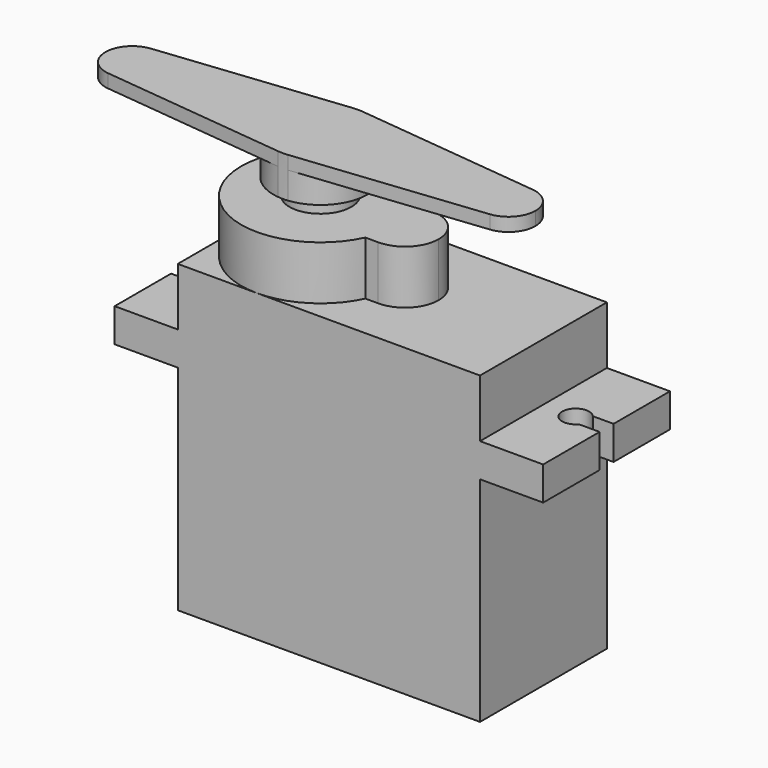
from build123d import *

# Parameters (mm, degrees)
F0_W      = 22.5
F0_H      = 15.9
F0_W_2    = 4.7
F0_H_2    = 2.5
F0_H_3    = 4.3
F1_DEPTH  = 11.8
F3_DEPTH  = 4
F5_DEPTH  = 18.401
F6_R      = 2.3
F7_DEPTH  = 3.2
F9_DEPTH  = 1
F8_R      = 2.3
F10_DEPTH = 2


with BuildPart() as f1:
    # F0 (on Front) → F1 (new body)
    with BuildSketch(Plane.XZ):
        with Locations((11.25, 7.95)):
            Rectangle(F0_W, F0_H)
        with Locations((-2.35, 17.15)):
            Rectangle(F0_W_2, F0_H_2)
        with Locations((11.25, 17.15)):
            Rectangle(F0_W, F0_H_2)
        with Locations((24.85, 17.15)):
            Rectangle(F0_W_2, F0_H_2)
        with Locations((11.25, 20.55)):
            Rectangle(F0_W, F0_H_3)
    extrude(amount=F1_DEPTH)

    # F2 (on face) → F3 (join)
    with BuildSketch(Plane.XY.offset(22.7)):
        with BuildLine():
            ThreePointArc((11.3166666667, -3.5612562726), (11.281015269, -3.4803564983), (11.2441556864, -3.4))
            ThreePointArc((11.2441556864, -3.4), (0, -5.9), (11.2441556864, -8.4))
            ThreePointArc((11.2441556864, -8.4), (11.281015269, -8.3196435017), (11.3166666667, -8.2387437274))
            ThreePointArc((11.3166666667, -8.2387437274), (9.7, -5.9), (11.3166666667, -3.5612562726))
        make_face()
        with BuildLine():
            Line((12.2, -3.4), (11.2441556864, -3.4))
            ThreePointArc((11.2441556864, -3.4), (11.281015269, -3.4803564983), (11.3166666667, -3.5612562726))
            ThreePointArc((11.3166666667, -3.5612562726), (11.7510341429, -3.4406444626), (12.2, -3.4))
        make_face()
        with BuildLine():
            ThreePointArc((11.3166666667, -8.2387437274), (11.281015269, -8.3196435017), (11.2441556864, -8.4))
            Line((11.2441556864, -8.4), (12.2, -8.4))
            ThreePointArc((12.2, -8.4), (11.7510341429, -8.3593555374), (11.3166666667, -8.2387437274))
        make_face()
        with BuildLine():
            ThreePointArc((12.2, -3.4), (11.7510341429, -3.4406444626), (11.3166666667, -3.5612562726))
            ThreePointArc((11.3166666667, -3.5612562726), (11.6779033106, -4.7059173675), (11.8, -5.9))
            ThreePointArc((11.8, -5.9), (11.6779033106, -7.0940826325), (11.3166666667, -8.2387437274))
            ThreePointArc((11.3166666667, -8.2387437274), (11.7510341429, -8.3593555374), (12.2, -8.4))
            ThreePointArc((12.2, -8.4), (13.967766953, -7.667766953), (14.7, -5.9))
            ThreePointArc((14.7, -5.9), (13.967766953, -4.132233047), (12.2, -3.4))
        make_face()
        with BuildLine():
            ThreePointArc((11.3166666667, -8.2387437274), (11.6779033106, -7.0940826325), (11.8, -5.9))
            ThreePointArc((11.8, -5.9), (11.6779033106, -4.7059173675), (11.3166666667, -3.5612562726))
            ThreePointArc((11.3166666667, -3.5612562726), (9.7, -5.9), (11.3166666667, -8.2387437274))
        make_face()
    extrude(amount=F3_DEPTH)

    # F4 (on face) → F5 (cut, through all)
    with BuildSketch(Plane.XY.offset(18.4)):
        with BuildLine():
            ThreePointArc((-3.1599342077, -6.55), (-2.0535423602, -6.8380656181), (-1.4, -5.9))
            ThreePointArc((-1.4, -5.9), (-2.0535423602, -4.9619343819), (-3.1599342077, -5.25))
            Line((-3.1599342077, -5.25), (-2.4, -5.25))
            Line((-2.4, -5.25), (-2.4, -6.55))
            Line((-2.4, -6.55), (-3.1599342077, -6.55))
        make_face()
        with BuildLine():
            Line((-2.4, -5.25), (-3.1599342077, -5.25))
            ThreePointArc((-3.1599342077, -5.25), (-3.4, -5.9), (-3.1599342077, -6.55))
            Line((-3.1599342077, -6.55), (-2.4, -6.55))
            Line((-2.4, -6.55), (-2.4, -5.25))
        make_face()
        with BuildLine():
            ThreePointArc((-3.1599342077, -6.55), (-3.4, -5.9), (-3.1599342077, -5.25))
            Line((-3.1599342077, -5.25), (-7, -5.25))
            Line((-7, -5.25), (-7, -6.55))
            Line((-7, -6.55), (-3.1599342077, -6.55))
        make_face()
        with BuildLine():
            ThreePointArc((25.6599342077, -6.55), (25.8380656181, -6.2464576398), (25.9, -5.9))
            ThreePointArc((25.9, -5.9), (25.8380656181, -5.5535423602), (25.6599342077, -5.25))
            Line((25.6599342077, -5.25), (24.9, -5.25))
            Line((24.9, -5.25), (24.9, -6.55))
            Line((24.9, -6.55), (25.6599342077, -6.55))
        make_face()
        with BuildLine():
            ThreePointArc((25.6599342077, -5.25), (25.8380656181, -5.5535423602), (25.9, -5.9))
            ThreePointArc((25.9, -5.9), (25.8380656181, -6.2464576398), (25.6599342077, -6.55))
            Line((25.6599342077, -6.55), (29.5482767582, -6.55))
            Line((29.5482767582, -6.55), (29.5482767582, -5.25))
            Line((29.5482767582, -5.25), (25.6599342077, -5.25))
        make_face()
        with BuildLine():
            Line((24.9, -5.25), (25.6599342077, -5.25))
            ThreePointArc((25.6599342077, -5.25), (23.9, -5.9), (25.6599342077, -6.55))
            Line((25.6599342077, -6.55), (24.9, -6.55))
            Line((24.9, -6.55), (24.9, -5.25))
        make_face()
    extrude(amount=-F5_DEPTH, mode=Mode.SUBTRACT)


with BuildPart() as f7:
    # F6 (on face) → F7 (new body)
    with BuildSketch(Plane.XY.offset(26.7)):
        with Locations((5.9, -5.9)):
            Circle(F6_R)
    extrude(amount=F7_DEPTH)

    # F8 (on face) → F9 (join)
    with BuildSketch(Plane.XY.offset(29.9)):
        with BuildLine():
            ThreePointArc((6.275, -9.3798527268), (8.504083332, -8.2385358667), (9.4, -5.9))
            ThreePointArc((9.4, -5.9), (8.504083332, -3.5614641333), (6.275, -2.4201472732))
            ThreePointArc((6.275, -2.4201472732), (5.9, -2.4), (5.525, -2.4201472732))
            ThreePointArc((5.525, -2.4201472732), (2.4, -5.9), (5.525, -9.3798527268))
            ThreePointArc((5.525, -9.3798527268), (5.9, -9.4), (6.275, -9.3798527268))
        make_face()
        with BuildLine():
            ThreePointArc((6.275, -2.4201472732), (8.504083332, -3.5614641333), (9.4, -5.9))
            ThreePointArc((9.4, -5.9), (8.504083332, -8.2385358667), (6.275, -9.3798527268))
            Line((6.275, -9.3798527268), (20.1142857143, -7.8884872724))
            ThreePointArc((20.1142857143, -7.8884872724), (17.9, -5.9), (20.1142857143, -3.9115127276))
            Line((20.1142857143, -3.9115127276), (6.275, -2.4201472732))
        make_face()
        with BuildLine():
            ThreePointArc((5.525, -9.3798527268), (2.4, -5.9), (5.525, -2.4201472732))
            Line((5.525, -2.4201472732), (-8.3142857143, -3.9115127276))
            ThreePointArc((-8.3142857143, -3.9115127276), (-6.7636937904, -4.4119523817), (-6.1, -5.9))
            ThreePointArc((-6.1, -5.9), (-6.7636937904, -7.3880476183), (-8.3142857143, -7.8884872724))
            Line((-8.3142857143, -7.8884872724), (5.525, -9.3798527268))
        make_face()
        with BuildLine():
            ThreePointArc((21.9, -5.9), (21.3880476183, -4.5636937904), (20.1142857143, -3.9115127276))
            ThreePointArc((20.1142857143, -3.9115127276), (17.9, -5.9), (20.1142857143, -7.8884872724))
            ThreePointArc((20.1142857143, -7.8884872724), (21.3880476183, -7.2363062096), (21.9, -5.9))
        make_face()
        with BuildLine():
            ThreePointArc((-6.1, -5.9), (-6.7636937904, -4.4119523817), (-8.3142857143, -3.9115127276))
            ThreePointArc((-8.3142857143, -3.9115127276), (-10.1, -5.9), (-8.3142857143, -7.8884872724))
            ThreePointArc((-8.3142857143, -7.8884872724), (-6.7636937904, -7.3880476183), (-6.1, -5.9))
        make_face()
    extrude(amount=F9_DEPTH)

    # F8 (on face) → F10 (join)
    with BuildSketch(Plane.XY.offset(29.9)):
        with BuildLine():
            ThreePointArc((6.275, -9.3798527268), (8.504083332, -8.2385358667), (9.4, -5.9))
            ThreePointArc((9.4, -5.9), (8.504083332, -3.5614641333), (6.275, -2.4201472732))
            ThreePointArc((6.275, -2.4201472732), (5.9, -2.4), (5.525, -2.4201472732))
            ThreePointArc((5.525, -2.4201472732), (2.4, -5.9), (5.525, -9.3798527268))
            ThreePointArc((5.525, -9.3798527268), (5.9, -9.4), (6.275, -9.3798527268))
        make_face()
        with Locations((5.9, -5.9)):
            Circle(F8_R, mode=Mode.SUBTRACT)
    extrude(amount=-F10_DEPTH)


solid = Compound([f1.part, f7.part])
